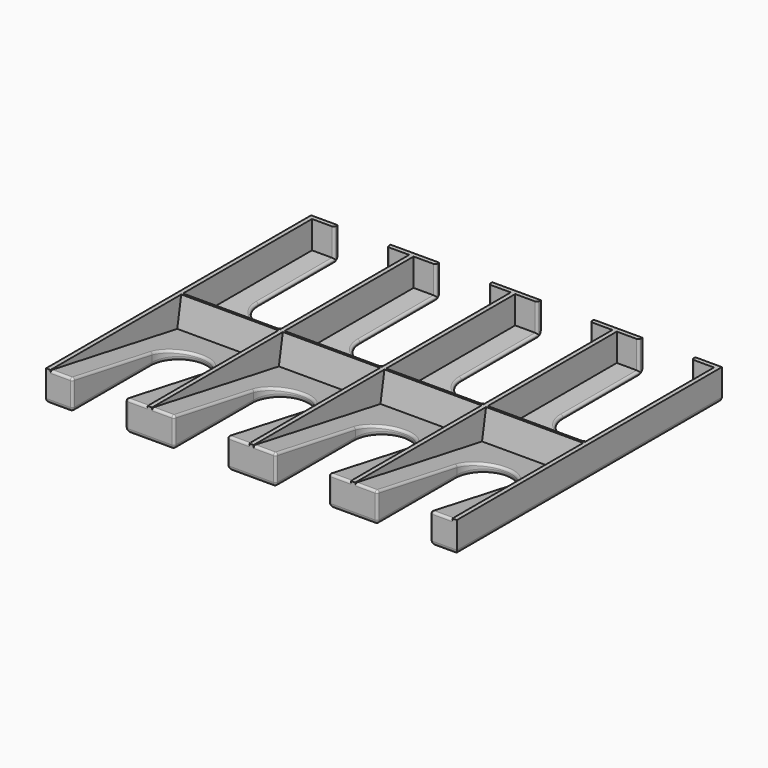
from build123d import *

# Parameters (mm, degrees)
SKETCH018_W                        = 186
SKETCH018_H                        = 150
PAD008_DEPTH                       = 14
SKETCH019_W                        = 44
SKETCH019_H                        = 73
POCKET010_DEPTH                    = 12.5
LINEARPATTERN006_COUNT             = 4
LINEARPATTERN006_PITCH             = 46
SKETCH020_W                        = 44
SKETCH020_H                        = 73
POCKET011_DEPTH                    = 13
LINEARPATTERN007_COUNT             = 4
LINEARPATTERN007_PITCH             = 46
POCKET012_DEPTH                    = 492.715946
POCKET012_LINEARPATTERN008_2_DEPTH = 492.715946
POCKET012_LINEARPATTERN008_3_DEPTH = 492.715946
POCKET012_LINEARPATTERN008_4_DEPTH = 492.715946
FILLET012_R                        = 1
FILLET013_R                        = 1
FILLET014_R                        = 2


with BuildPart() as part:
    # Sketch018 → Pad008 (new body)
    with BuildSketch(Plane.XY):
        Rectangle(SKETCH018_W, SKETCH018_H)
    extrude(amount=PAD008_DEPTH)

    # Sketch019 (on DatumPlane) → Pocket010 (cut)
    with BuildSketch(Plane(origin=(-69, 0, 14), x_dir=(1, 0, 0), z_dir=(0, 0, 1))):
        with Locations((0, 36.5)):
            Rectangle(SKETCH019_W, SKETCH019_H)
    pocket010 = extrude(amount=-POCKET010_DEPTH, mode=Mode.SUBTRACT)

    # LinearPattern006: Pocket010 ×4
    with Locations(*[(i * LINEARPATTERN006_PITCH, 0, 0) for i in range(1, LINEARPATTERN006_COUNT)]):
        add(pocket010, mode=Mode.SUBTRACT)

    # Sketch020 (on DatumPlane) → Pocket011 (cut)
    with BuildSketch(Plane(origin=(-69, -1, 14), x_dir=(1, 0, 0), z_dir=(0, 0.173648, 0.984808))):
        with Locations((0, -36.5)):
            Rectangle(SKETCH020_W, SKETCH020_H)
    pocket011 = extrude(amount=-POCKET011_DEPTH, mode=Mode.SUBTRACT)

    # LinearPattern007: Pocket011 ×4
    with Locations(*[(i * LINEARPATTERN007_PITCH, 0, 0) for i in range(1, LINEARPATTERN007_COUNT)]):
        add(pocket011, mode=Mode.SUBTRACT)

    # Sketch021 (on DatumPlane) → Pocket012 (cut, through all)
    with BuildSketch(Plane(origin=(-69, 30, 14), x_dir=(1, 0, 0), z_dir=(0, 0, 1))):
        with BuildLine():
            Line((12, 0), (12, 50))
            Line((12, 50), (-12, 50))
            Line((-12, 50), (-12, 0))
            ThreePointArc((-12, 0), (0, -12), (12, 0))
        make_face()
    pocket012 = extrude(amount=-POCKET012_DEPTH, mode=Mode.SUBTRACT)

    # Sketch021 LinearPattern008 2 → Pocket012 LinearPattern008 2 (cut, through all)
    with BuildSketch(Plane(origin=(-23, 30, 14), x_dir=(1, 0, 0), z_dir=(0, 0, 1))):
        with BuildLine():
            Line((12, 0), (12, 50))
            Line((12, 50), (-12, 50))
            Line((-12, 50), (-12, 0))
            ThreePointArc((-12, 0), (0, -12), (12, 0))
        make_face()
    pocket012_linearpattern008_2 = extrude(amount=-POCKET012_LINEARPATTERN008_2_DEPTH, mode=Mode.SUBTRACT)

    # Sketch021 LinearPattern008 3 → Pocket012 LinearPattern008 3 (cut, through all)
    with BuildSketch(Plane(origin=(23, 30, 14), x_dir=(1, 0, 0), z_dir=(0, 0, 1))):
        with BuildLine():
            Line((12, 0), (12, 50))
            Line((12, 50), (-12, 50))
            Line((-12, 50), (-12, 0))
            ThreePointArc((-12, 0), (0, -12), (12, 0))
        make_face()
    pocket012_linearpattern008_3 = extrude(amount=-POCKET012_LINEARPATTERN008_3_DEPTH, mode=Mode.SUBTRACT)

    # Sketch021 LinearPattern008 4 → Pocket012 LinearPattern008 4 (cut, through all)
    with BuildSketch(Plane(origin=(69, 30, 14), x_dir=(1, 0, 0), z_dir=(0, 0, 1))):
        with BuildLine():
            Line((12, 0), (12, 50))
            Line((12, 50), (-12, 50))
            Line((-12, 50), (-12, 0))
            ThreePointArc((-12, 0), (0, -12), (12, 0))
        make_face()
    pocket012_linearpattern008_4 = extrude(amount=-POCKET012_LINEARPATTERN008_4_DEPTH, mode=Mode.SUBTRACT)

    # Mirrored005: Pocket012, Pocket012 LinearPattern008 2, Pocket012 LinearPattern008 3, Pocket012 LinearPattern008 4 across XZ
    add(pocket012.mirror(Plane.XZ), mode=Mode.SUBTRACT)
    add(pocket012_linearpattern008_2.mirror(Plane.XZ), mode=Mode.SUBTRACT)
    add(pocket012_linearpattern008_3.mirror(Plane.XZ), mode=Mode.SUBTRACT)
    add(pocket012_linearpattern008_4.mirror(Plane.XZ), mode=Mode.SUBTRACT)

    # Fillet012
    fillet012_edges = [part.edges().sort_by_distance(p)[0] for p in [
        (-81, -75, 6.923825),
        (-57, -75, 6.923825),
        (-35, -75, 6.923825),
        (-11, -75, 6.923825),
        (11, -75, 6.923825),
        (35, -75, 6.923825),
        (57, -75, 6.923825),
        (81, -75, 6.923825),
        (-86, -75, 13.847651),
        (-52, -75, 13.847651),
        (-40, -75, 13.847651),
        (-6, -75, 13.847651),
        (6, -75, 13.847651),
        (40, -75, 13.847651),
        (52, -75, 13.847651),
        (86, -75, 13.847651),
        (-81, -52.5, 9.880294),
        (-69, -18, 3.797013),
        (-57, -52.5, 9.880294),
        (-35, -52.5, 9.880294),
        (-23, -18, 3.797013),
        (-11, -52.5, 9.880294),
        (11, -52.5, 9.880294),
        (23, -18, 3.797013),
        (35, -52.5, 9.880294),
        (57, -52.5, 9.880294),
        (69, -18, 3.797013),
        (81, -52.5, 9.880294),
    ]]
    fillet(fillet012_edges, radius=FILLET012_R)

    # Fillet013
    fillet013_edges = [part.edges().sort_by_distance(p)[0] for p in [
        (81, 51.5, 1.5),
        (69, 18, 1.5),
        (81, 73, 7.75),
        (57, 51.5, 1.5),
        (57, 73, 7.75),
        (35, 73, 7.75),
        (35, 51.5, 1.5),
        (23, 18, 1.5),
        (11, 51.5, 1.5),
        (11, 73, 7.75),
        (-11, 73, 7.75),
        (-11, 51.5, 1.5),
        (-23, 18, 1.5),
        (-35, 51.5, 1.5),
        (-35, 73, 7.75),
        (-57, 73, 7.75),
        (-57, 51.5, 1.5),
        (-69, 18, 1.5),
        (-81, 51.5, 1.5),
        (-81, 73, 7.75),
    ]]
    fillet(fillet013_edges, radius=FILLET013_R)

    # Fillet014
    fillet014_edges = [part.edges().sort_by_distance(p)[0] for p in [
        (-93, 0, 0),
        (93, 0, 0),
        (87, 75, 0),
        (46, 75, 0),
        (0, 75, 0),
        (-46, 75, 0),
        (-87, 75, 0),
        (87.5, -75, 0),
        (46, -75, 0),
        (0, -75, 0),
        (-46, -75, 0),
        (-87.5, -75, 0),
    ]]
    fillet(fillet014_edges, radius=FILLET014_R)


with BuildPart() as part_1:
    # Body009 placement: moved
    add(part.part.moved(Location((0, 71, 0))))


solid = part_1.part
